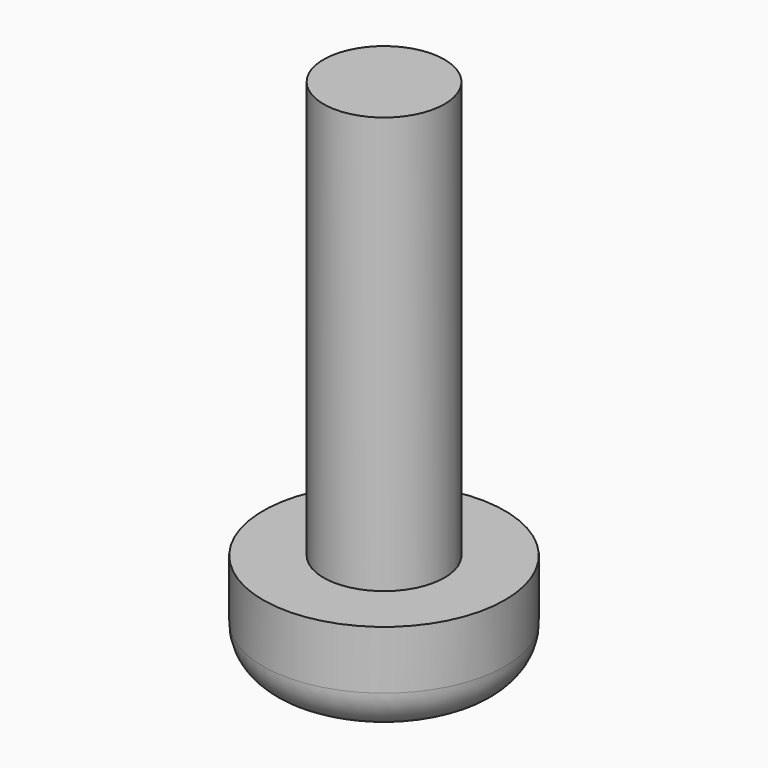
from build123d import *

# Parameters (mm, degrees)
F0_R     = 1.45
F1_DEPTH = 10
F2_R     = 2.9
F3_DEPTH = 2.4
F4_R     = 1
F5_W     = 1
F5_H     = 1
F6_DEPTH = 1.5


with BuildPart() as f1:
    # F0 (on Top) → F1 (new body)
    with BuildSketch(Plane.XY):
        Circle(F0_R)
    extrude(amount=F1_DEPTH)

    # F2 (on Top) → F3 (join)
    with BuildSketch(Plane.XY):
        Circle(F2_R)
    extrude(amount=-F3_DEPTH)

    # F4
    f4_edges = [f1.edges().sort_by_distance(p)[0] for p in [
        (-2.9, 0, -2.4),
    ]]
    fillet(f4_edges, radius=F4_R)

    # F5 (on face) → F6 (cut)
    with BuildSketch(Plane(origin=(0, 0, -2.4), x_dir=(1, 0, 0), z_dir=(0, 0, -1))):
        with Locations((1, 0)):
            Rectangle(F5_W, F5_H)
        Rectangle(F5_W, F5_H)
        with Locations((0, 1)):
            Rectangle(F5_W, F5_H)
        with Locations((-1, 0)):
            Rectangle(F5_W, F5_H)
        with Locations((0, -1)):
            Rectangle(F5_W, F5_H)
    extrude(amount=-F6_DEPTH, mode=Mode.SUBTRACT)


solid = f1.part
